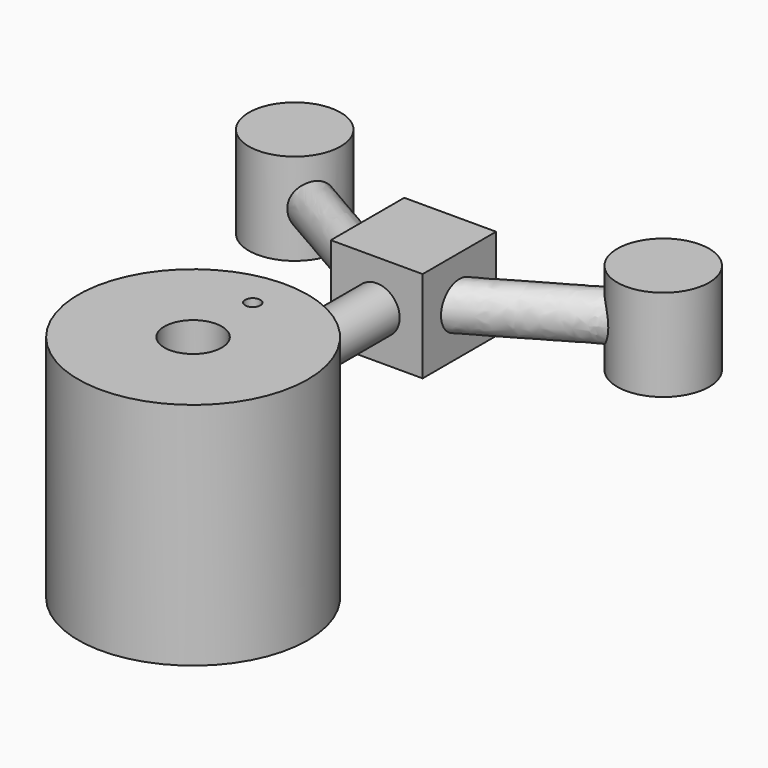
from build123d import *

# Parameters (mm, degrees)
F0_R      = 25
F0_R_2    = 6.25
F1_DEPTH  = 50
F2_R      = 5
F3_DEPTH  = 25
F5_D      = 3.3
F5_DEPTH  = 12
F5_TIP    = 0.9914200214
F7_START  = -6
F6_R      = 5
F7_DEPTH  = 44
F8_W      = 20
F8_H      = 20
F9_DEPTH  = 20
F13_R     = 5
F12_R     = 5
F16_R     = 10
F17_DEPTH = 20
F18_R     = 15
F18_R_2   = 6.25
F19_DEPTH = 15
F20_SIZE  = 5


with BuildPart() as f1:
    # F0 (on Top) → F1 (new body)
    with BuildSketch(Plane.XY):
        Circle(F0_R)
        Circle(F0_R_2, mode=Mode.SUBTRACT)
    extrude(amount=F1_DEPTH)

    # F2 (on Front) → F3 (cut)
    with BuildSketch(Plane.XZ):
        with Locations((0, 35)):
            Circle(F2_R)
    extrude(amount=-F3_DEPTH, mode=Mode.SUBTRACT)

    # F5
    with Locations(Plane.XY.offset(50)):
        with Locations((0, 16.25)):
            Hole(F5_D / 2, depth=F5_DEPTH)
            with Locations((0, 0, -(F5_DEPTH + F5_TIP / 2))):  # 118° drill point
                Cone(0, F5_D / 2, F5_TIP, mode=Mode.SUBTRACT)


with BuildPart() as f7:
    # F6 (on Front) → F7 (new body)
    with BuildSketch(Plane.XZ.offset(F7_START)):
        with Locations((0, 35)):
            Circle(F6_R)
    extrude(amount=-F7_DEPTH)

    # F8 (on face) → F9 (join)
    with BuildSketch(Plane(origin=(0, 50, 0), x_dir=(-1, 0, 0), z_dir=(0, 1, 0))):
        with Locations((0, 35)):
            Rectangle(F8_W, F8_H)
    extrude(amount=F9_DEPTH)

    # F14: sweep along a path in F10
    with BuildLine(Plane.XY.offset(45)) as f14_path:
        Line((10, 60), (40, 77.3205080757))
    # F13 (on face) → F14 (sweep)
    with BuildSketch(Plane.YZ.offset(10)):
        with Locations((60, 35)):
            Circle(F13_R)
    sweep(path=f14_path.line)

    # F15: sweep along a path in F11
    with BuildLine(Plane.XY.offset(45)) as f15_path:
        Line((-9.9534913898, 60), (-40, 77.3473598343))
    # F12 (on face) → F15 (sweep)
    with BuildSketch(Plane(origin=(-10, 0, 0), x_dir=(0, -1, 0), z_dir=(-1, 0, 0))):
        with Locations((-60, 35)):
            Circle(F12_R)
    sweep(path=f15_path.line)

    # F16 (on face) → F17 (join)
    with BuildSketch(Plane.XY.offset(45)):
        with Locations((40, 78)):
            Circle(F16_R)
        with Locations((-40.2622669935, 78)):
            Circle(F16_R)
    extrude(amount=-F17_DEPTH)


with BuildPart() as f19:
    # F18 (on Top) → F19 (new body)
    with BuildSketch(Plane.XY):
        Circle(F18_R)
        Circle(F18_R_2, mode=Mode.SUBTRACT)
    extrude(amount=F19_DEPTH)

    # F20
    f20_edges = [f19.edges().sort_by_distance(p)[0] for p in [
        (-15, 0, 15),
    ]]
    chamfer(f20_edges, length=F20_SIZE)


solid = Compound([f1.part, f7.part, f19.part])
